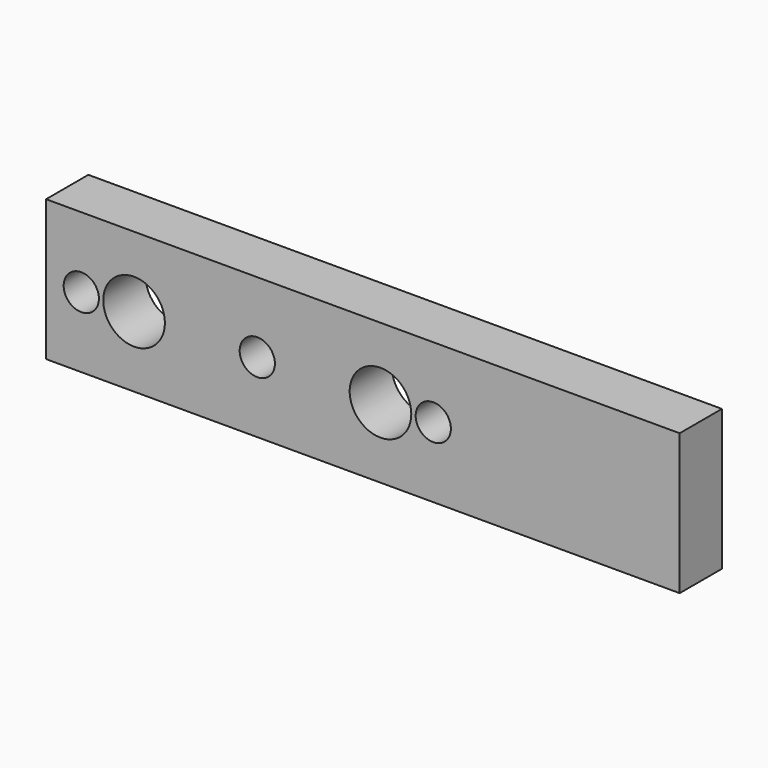
from build123d import *

# Parameters (mm, degrees)
F0_W     = 228.6
F0_H     = 50.8
F0_R     = 6.35
F0_R_2   = 11.1125
F1_DEPTH = 19.05


with BuildPart() as f1:
    # F0 (on Front) → F1 (new body)
    with BuildSketch(Plane.XZ):
        with Locations((114.3, 25.4)):
            Rectangle(F0_W, F0_H)
        with Locations((12.7, 25.4)):
            Circle(F0_R, mode=Mode.SUBTRACT)
        with Locations((31.75, 25.4)):
            Circle(F0_R_2, mode=Mode.SUBTRACT)
        with Locations((76.2, 25.4)):
            Circle(F0_R, mode=Mode.SUBTRACT)
        with Locations((120.65, 25.4)):
            Circle(F0_R_2, mode=Mode.SUBTRACT)
        with Locations((139.7, 25.4)):
            Circle(F0_R, mode=Mode.SUBTRACT)
    extrude(amount=F1_DEPTH)


solid = f1.part
